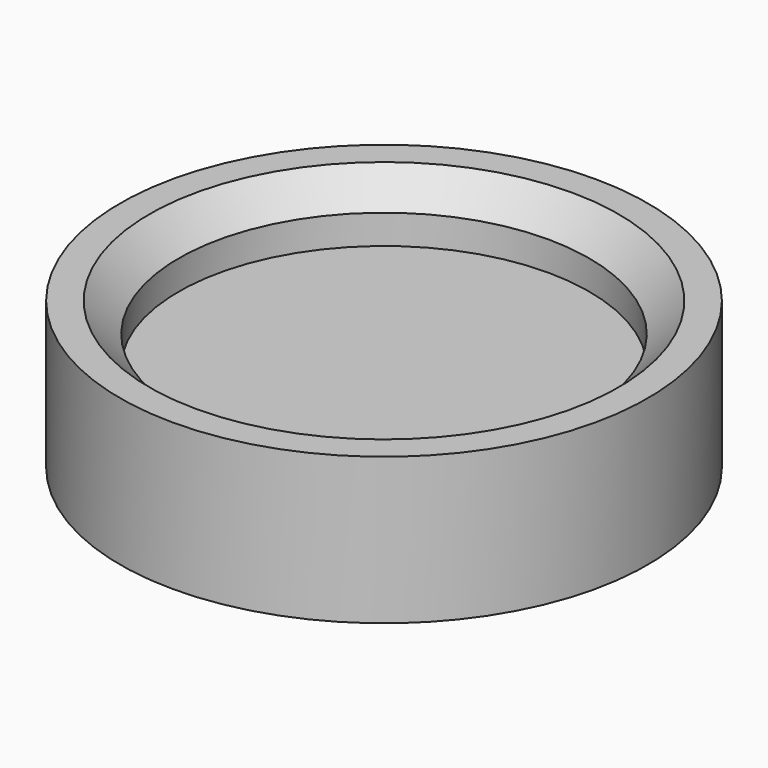
from build123d import *

# Parameters (mm, degrees)
F2_SIZE = 2


with BuildPart() as f1:
    # F0 (on Right) → F1 (revolve)
    with BuildSketch(Plane.YZ):
        Polygon((-14, 1.955307), (-18, 1.955307), (-18, -8.044693), (-14, -8.044693), (-14, -4.044693), (0, -4.044693), (0, -2.044693), (-14, -2.044693), align=None)
    revolve(axis=Axis((0, 0, -1.638931), (0, 0, -1)))

    # F2
    f2_edges = [f1.edges().sort_by_distance(p)[0] for p in [
        (0, 14, 1.955307),
        (0, 14, -8.044693),
    ]]
    chamfer(f2_edges, length=F2_SIZE)


solid = f1.part
